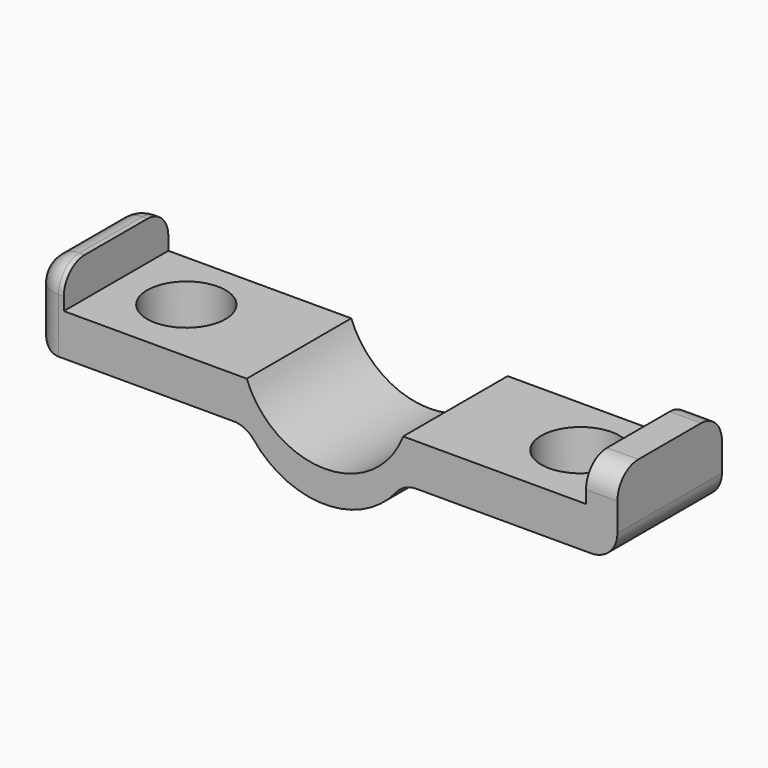
from build123d import *

# Parameters (mm, degrees)
F1_DEPTH = 25
F2_R     = 7.5
F3_DEPTH = 25
F4_R     = 5


with BuildPart() as f1:
    # F0 (on Front) → F1 (new body)
    with BuildSketch(Plane.XZ):
        with BuildLine():
            Line((-36.079331, 26.828598), (-42.079331, 26.828598))
            Line((-42.079331, 26.828598), (-42.079331, 11.400025))
            Line((-42.079331, 11.400025), (-36.079331, 11.400025))
            Line((-36.079331, 11.400025), (-1.079331, 11.400025))
            ThreePointArc((-1.079331, 11.400025), (13.879066, 3.078612), (28.837463, 11.400025))
            Line((28.837463, 11.400025), (69.837463, 11.400025))
            Line((69.837463, 11.400025), (69.837463, 26.828598))
            Line((69.837463, 26.828598), (63.837463, 26.828598))
            Line((63.837463, 26.828598), (63.837463, 19.400025))
            Line((63.837463, 19.400025), (28.837463, 19.400025))
            ThreePointArc((28.837463, 19.400025), (13.879066, 9.078612), (-1.079331, 19.400025))
            Line((-1.079331, 19.400025), (-36.079331, 19.400025))
            Line((-36.079331, 19.400025), (-36.079331, 26.828598))
        make_face()
    extrude(amount=F1_DEPTH)

    # F2 (on face) → F3 (cut)
    with BuildSketch(Plane(origin=(0, 0, 11.400025), x_dir=(1, 0, 0), z_dir=(0, 0, -1))):
        with Locations((-23.09421, 11.928692)):
            Circle(F2_R)
        with Locations((52.305905, 11.928692)):
            Circle(F2_R)
    extrude(amount=-F3_DEPTH, mode=Mode.SUBTRACT)

    # F4
    f4_edges = [f1.edges().sort_by_distance(p)[0] for p in [
        (-39.079331, -25, 26.828598),
        (-39.079331, 0, 26.828598),
        (-42.079331, -12.5, 11.400025),
        (69.837463, -12.5, 11.400025),
        (66.837463, -25, 26.828598),
        (66.837463, 0, 26.828598),
        (-1.079331, -12.5, 11.400025),
        (28.837463, -12.5, 11.400025),
        (-42.079331, -12.5, 26.828598),
        (-42.079331, 0, 19.114311),
        (-42.079331, -25, 19.114311),
    ]]
    fillet(f4_edges, radius=F4_R)


solid = f1.part
